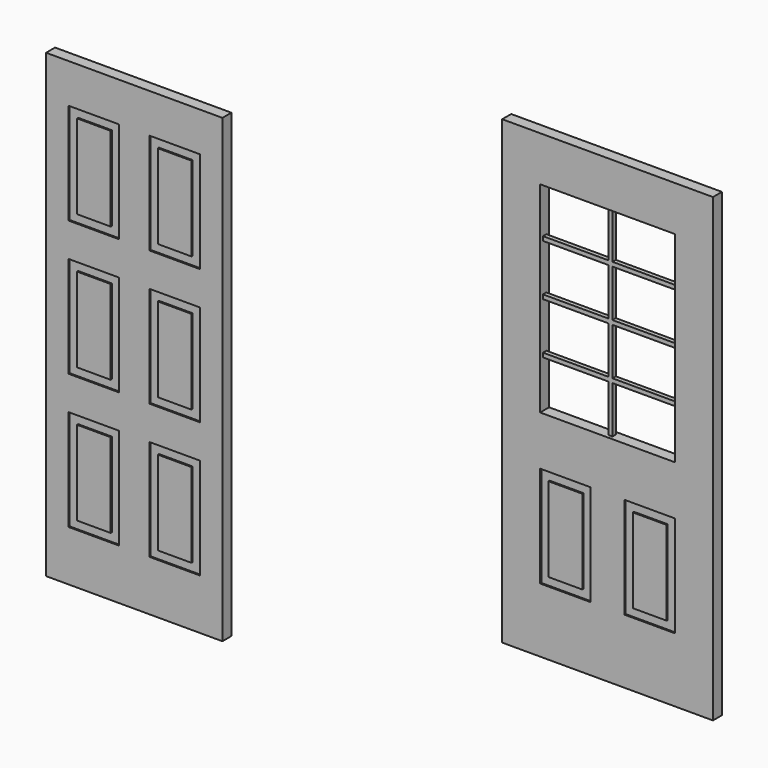
from build123d import *

# Parameters (mm, degrees)
F0_W     = 796.925
F0_H     = 2082.8
F0_W_2   = 228.6
F0_H_2   = 457.2
F1_DEPTH = 25.4
F0_W_3   = 152.4
F0_H_3   = 381
F2_DEPTH = 19.05
F3_DEPTH = 25.4
F0_W_4   = 19.05
F0_H_4   = 212.725
F0_W_5   = 295.275
F0_H_5   = 19.05
F4_DEPTH = 9.525
F5_DEPTH = 19.05


with BuildPart() as f1:
    # F0 (on Front) → F1 (new body, symmetric)
    with BuildSketch(Plane.XZ):
        with Locations((0, 1008.8286796093)):
            Rectangle(F0_W, F0_H)
        with Locations((-182.5625, 424.6286796093)):
            Rectangle(F0_W_2, F0_H_2, mode=Mode.SUBTRACT)
        with Locations((182.5625, 424.6286796093)):
            Rectangle(F0_W_2, F0_H_2, mode=Mode.SUBTRACT)
        with Locations((-182.5625, 1034.2286796093)):
            Rectangle(F0_W_2, F0_H_2, mode=Mode.SUBTRACT)
        with Locations((182.5625, 1034.2286796093)):
            Rectangle(F0_W_2, F0_H_2, mode=Mode.SUBTRACT)
        with Locations((-182.5625, 1643.8286796093)):
            Rectangle(F0_W_2, F0_H_2, mode=Mode.SUBTRACT)
        with Locations((182.5625, 1643.8286796093)):
            Rectangle(F0_W_2, F0_H_2, mode=Mode.SUBTRACT)
    extrude(amount=F1_DEPTH, both=True)



with BuildPart() as f1b:
    # F0 (on Front) → F1, piece 2 (new body, symmetric)
    with BuildSketch(Plane.XZ):
        with Locations((-182.5625, 1643.8286796093)):
            Rectangle(F0_W_3, F0_H_3)
    extrude(amount=F1_DEPTH, both=True)


with BuildPart() as f1c:
    # F0 (on Front) → F1, piece 3 (new body, symmetric)
    with BuildSketch(Plane.XZ):
        with Locations((182.5625, 1643.8286796093)):
            Rectangle(F0_W_3, F0_H_3)
    extrude(amount=F1_DEPTH, both=True)


with BuildPart() as f1d:
    # F0 (on Front) → F1, piece 4 (new body, symmetric)
    with BuildSketch(Plane.XZ):
        with Locations((182.5625, 1034.2286796093)):
            Rectangle(F0_W_3, F0_H_3)
    extrude(amount=F1_DEPTH, both=True)


with BuildPart() as f1e:
    # F0 (on Front) → F1, piece 5 (new body, symmetric)
    with BuildSketch(Plane.XZ):
        with Locations((-182.5625, 1034.2286796093)):
            Rectangle(F0_W_3, F0_H_3)
    extrude(amount=F1_DEPTH, both=True)


with BuildPart() as f1f:
    # F0 (on Front) → F1, piece 6 (new body, symmetric)
    with BuildSketch(Plane.XZ):
        with Locations((-182.5625, 424.6286796093)):
            Rectangle(F0_W_3, F0_H_3)
    extrude(amount=F1_DEPTH, both=True)


with BuildPart() as f1g:
    # F0 (on Front) → F1, piece 7 (new body, symmetric)
    with BuildSketch(Plane.XZ):
        with Locations((182.5625, 424.6286796093)):
            Rectangle(F0_W_3, F0_H_3)
    extrude(amount=F1_DEPTH, both=True)


with BuildPart() as f1_1:
    add(f1.part)

    add(f1b.part)  # F2 merges F1b

    add(f1c.part)  # F2 merges F1c

    add(f1d.part)  # F2 merges F1d

    add(f1e.part)  # F2 merges F1e

    add(f1f.part)  # F2 merges F1f

    add(f1g.part)  # F2 merges F1g
    # F0 (on Front) → F2 (join, symmetric)
    with BuildSketch(Plane.XZ):
        with Locations((-182.5625, 1643.8286796093)):
            Rectangle(F0_W_2, F0_H_2)
        with Locations((-182.5625, 1643.8286796093)):
            Rectangle(F0_W_3, F0_H_3, mode=Mode.SUBTRACT)
        with Locations((182.5625, 1643.8286796093)):
            Rectangle(F0_W_2, F0_H_2)
        with Locations((182.5625, 1643.8286796093)):
            Rectangle(F0_W_3, F0_H_3, mode=Mode.SUBTRACT)
        with Locations((182.5625, 1034.2286796093)):
            Rectangle(F0_W_2, F0_H_2)
        with Locations((182.5625, 1034.2286796093)):
            Rectangle(F0_W_3, F0_H_3, mode=Mode.SUBTRACT)
        with Locations((-182.5625, 1034.2286796093)):
            Rectangle(F0_W_2, F0_H_2)
        with Locations((-182.5625, 1034.2286796093)):
            Rectangle(F0_W_3, F0_H_3, mode=Mode.SUBTRACT)
        with Locations((-182.5625, 424.6286796093)):
            Rectangle(F0_W_2, F0_H_2)
        with Locations((-182.5625, 424.6286796093)):
            Rectangle(F0_W_3, F0_H_3, mode=Mode.SUBTRACT)
        with Locations((182.5625, 424.6286796093)):
            Rectangle(F0_W_2, F0_H_2)
        with Locations((182.5625, 424.6286796093)):
            Rectangle(F0_W_3, F0_H_3, mode=Mode.SUBTRACT)
    extrude(amount=F2_DEPTH, both=True)


with BuildPart() as f3:
    # F0 (on Front) → F3 (new body, symmetric)
    with BuildSketch(Plane.XZ):
        Polygon((2139.5355490623, 2456.2077066942), (1663.2855490623, 2456.2077066942), (1663.2855490623, 373.4077066942), (2139.5355490623, 373.4077066942), (2615.7855490623, 373.4077066942), (2615.7855490623, 2456.2077066942), align=None)
        with Locations((1949.0355490623, 892.9336071014)):
            Rectangle(F0_W_2, F0_H_2, mode=Mode.SUBTRACT)
        with Locations((2330.0355490623, 892.9336071014)):
            Rectangle(F0_W_2, F0_H_2, mode=Mode.SUBTRACT)
        Polygon((1834.7355490623, 2040.2827066942), (1834.7355490623, 2253.0077066942), (2130.0105490623, 2253.0077066942), (2149.0605490623, 2253.0077066942), (2444.3355490623, 2253.0077066942), (2444.3355490623, 2040.2827066942), (2444.3355490623, 2021.2327066942), (2444.3355490623, 1808.5077066942), (2444.3355490623, 1789.4577066942), (2444.3355490623, 1576.7327066942), (2444.3355490623, 1557.6827066942), (2444.3355490623, 1344.9577066942), (2149.0605490623, 1344.9577066942), (2130.0105490623, 1344.9577066942), (1834.7355490623, 1344.9577066942), (1834.7355490623, 1557.6827066942), (1834.7355490623, 1576.7327066942), (1834.7355490623, 1789.4577066942), (1834.7355490623, 1808.5077066942), (1834.7355490623, 2021.2327066942), align=None, mode=Mode.SUBTRACT)
    extrude(amount=F3_DEPTH, both=True)

    # F0 (on Front) → F4 (join, symmetric)
    with BuildSketch(Plane.XZ):
        with Locations((2139.5355490623, 2146.6452066942)):
            Rectangle(F0_W_4, F0_H_4)
        with Locations((1982.3730490623, 2030.7577066942)):
            Rectangle(F0_W_5, F0_H_5)
        with Locations((2296.6980490623, 2030.7577066942)):
            Rectangle(F0_W_5, F0_H_5)
        with Locations((2139.5355490623, 1914.8702066942)):
            Rectangle(F0_W_4, F0_H_4)
        with Locations((1982.3730490623, 1798.9827066942)):
            Rectangle(F0_W_5, F0_H_5)
        with Locations((2296.6980490623, 1798.9827066942)):
            Rectangle(F0_W_5, F0_H_5)
        with Locations((2139.5355490623, 1683.0952066942)):
            Rectangle(F0_W_4, F0_H_4)
        with Locations((2139.5355490623, 1451.3202066942)):
            Rectangle(F0_W_4, F0_H_4)
        with Locations((2296.6980490623, 1567.2077066942)):
            Rectangle(F0_W_5, F0_H_5)
        with Locations((1982.3730490623, 1567.2077066942)):
            Rectangle(F0_W_5, F0_H_5)
        with Locations((2139.5355490623, 1567.2077066942)):
            Rectangle(F0_W_4, F0_H_5)
        with Locations((2139.5355490623, 1798.9827066942)):
            Rectangle(F0_W_4, F0_H_5)
        with Locations((2139.5355490623, 2030.7577066942)):
            Rectangle(F0_W_4, F0_H_5)
    extrude(amount=F4_DEPTH, both=True)



with BuildPart() as f3b:
    # F0 (on Front) → F3, piece 2 (new body, symmetric)
    with BuildSketch(Plane.XZ):
        with Locations((1949.0355490623, 892.9336071014)):
            Rectangle(F0_W_3, F0_H_3)
    extrude(amount=F3_DEPTH, both=True)


with BuildPart() as f3c:
    # F0 (on Front) → F3, piece 3 (new body, symmetric)
    with BuildSketch(Plane.XZ):
        with Locations((2330.0355490623, 892.9336071014)):
            Rectangle(F0_W_3, F0_H_3)
    extrude(amount=F3_DEPTH, both=True)


with BuildPart() as f3_1:
    add(f3.part)

    add(f3b.part)  # F5 merges F3b

    add(f3c.part)  # F5 merges F3c
    # F0 (on Front) → F5 (join, symmetric)
    with BuildSketch(Plane.XZ):
        with Locations((1949.0355490623, 892.9336071014)):
            Rectangle(F0_W_2, F0_H_2)
        with Locations((1949.0355490623, 892.9336071014)):
            Rectangle(F0_W_3, F0_H_3, mode=Mode.SUBTRACT)
        with Locations((2330.0355490623, 892.9336071014)):
            Rectangle(F0_W_2, F0_H_2)
        with Locations((2330.0355490623, 892.9336071014)):
            Rectangle(F0_W_3, F0_H_3, mode=Mode.SUBTRACT)
    extrude(amount=F5_DEPTH, both=True)


solid = Compound([f1_1.part, f3_1.part])
